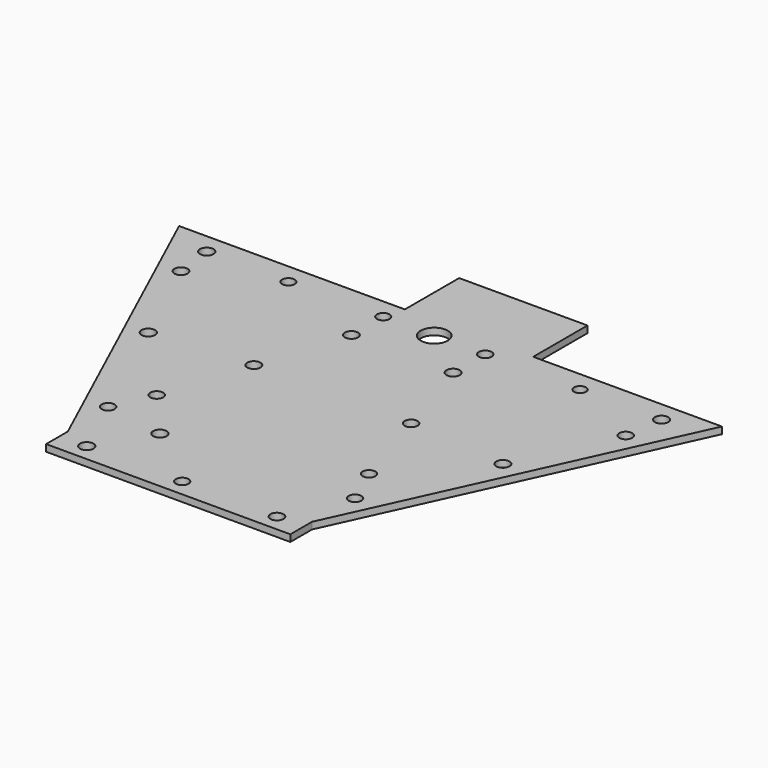
from build123d import *

# Parameters (mm, degrees)
F0_W      = 114.3
F0_H      = 12.7
F1_DEPTH  = 3.175
F2_R      = 6.35
F3_DEPTH  = 25.4
F4_R      = 3.021184
F4_R_2    = 3.02523
F4_R_3    = 3.170788
F4_R_4    = 3.070755
F4_R_5    = 3.170798
F4_R_6    = 2.930153
F4_R_7    = 2.94527
F4_R_8    = 3.090546
F4_R_9    = 3.106591
F4_R_10   = 2.82513
F4_R_11   = 3.161756
F4_R_12   = 3.03759
F4_R_13   = 3.13771
F4_R_14   = 3.0417
F4_R_15   = 3.104919
F4_R_16   = 2.990317
F4_R_17   = 3.019885
F5_DEPTH  = 25.4
F6_R      = 3.185907
F6_R_2    = 2.97679
F6_R_3    = 3.061714
F7_DEPTH  = 25.4
F8_R      = 3.175
F9_DEPTH  = 25.4
F10_W     = 60.049655
F10_H     = 3.175
F11_DEPTH = 31.75


with BuildPart() as f1:
    # F0 (on Top) → F1 (new body)
    with BuildSketch(Plane.XY):
        Polygon((31.75, -76.2), (101.6, 76.2), (-152.4, 76.2), (-82.55, -76.2), align=None)
        with Locations((-25.4, -82.55)):
            Rectangle(F0_W, F0_H)
    extrude(amount=F1_DEPTH)

    # F2 (on face) → F3 (cut)
    with BuildSketch(Plane.XY.offset(3.175)):
        with Locations((-25.4, 66.675)):
            Circle(F2_R)
    extrude(amount=-F3_DEPTH, mode=Mode.SUBTRACT)

    # F4 (on face) → F5 (cut)
    with BuildSketch(Plane(origin=(0, 0, 0), x_dir=(1, 0, 0), z_dir=(0, 0, -1))):
        with Locations((-83.284251, 51.700644)):
            Circle(F4_R)
        with Locations((-75.218096, 33.298224)):
            Circle(F4_R_2)
        with Locations((-108.495958, -3.321084)):
            Circle(F4_R_3)
        with Locations((-129.506573, -48.709944)):
            Circle(F4_R_4)
        with Locations((-131.85069, -66.695675)):
            Circle(F4_R_5)
        with Locations((-93.609944, -66.641048)):
            Circle(F4_R_6)
        with Locations((-49.322799, -66.762716)):
            Circle(F4_R_7)
        with Locations((-49.380876, -48.191752)):
            Circle(F4_R_8)
        with Locations((-62.322322, -7.321586)):
            Circle(F4_R_9)
        with Locations((-1.619848, -66.78725)):
            Circle(F4_R)
        with Locations((42.874776, -66.633321)):
            Circle(F4_R_10)
        with Locations((80.977194, -66.69376)):
            Circle(F4_R_11)
        with Locations((78.597426, -48.701756)):
            Circle(F4_R_12)
        with Locations((-1.711915, -48.14671)):
            Circle(F4_R_13)
        with Locations((11.359618, -7.188707)):
            Circle(F4_R_14)
        with Locations((57.579476, -3.127213)):
            Circle(F4_R_15)
        with Locations((24.301577, 33.58651)):
            Circle(F4_R_16)
        with Locations((32.399718, 51.890686)):
            Circle(F4_R_17)
    extrude(amount=-F5_DEPTH, mode=Mode.SUBTRACT)

    # F6 (on face) → F7 (cut)
    with BuildSketch(Plane(origin=(0, 0, 0), x_dir=(1, 0, 0), z_dir=(0, 0, -1))):
        with Locations((-69.916442, 80.901213)):
            Circle(F6_R)
        with Locations((-25.25891, 80.907866)):
            Circle(F6_R_2)
        with Locations((19.162027, 81.010833)):
            Circle(F6_R_3)
    extrude(amount=-F7_DEPTH, mode=Mode.SUBTRACT)

    # F8 (on face) → F9 (cut)
    with BuildSketch(Plane(origin=(0, 0, 0), x_dir=(1, 0, 0), z_dir=(0, 0, -1))):
        with Locations((-55.243213, 56.448877)):
            Circle(F8_R)
    extrude(amount=-F9_DEPTH, mode=Mode.SUBTRACT)

    # F10 (on face) → F11 (join)
    with BuildSketch(Plane(origin=(0, 76.2, 0), x_dir=(-1, 0, 0), z_dir=(0, 1, 0))):
        with Locations((16.726869, 1.5875)):
            Rectangle(F10_W, F10_H)
    extrude(amount=F11_DEPTH)


solid = f1.part
